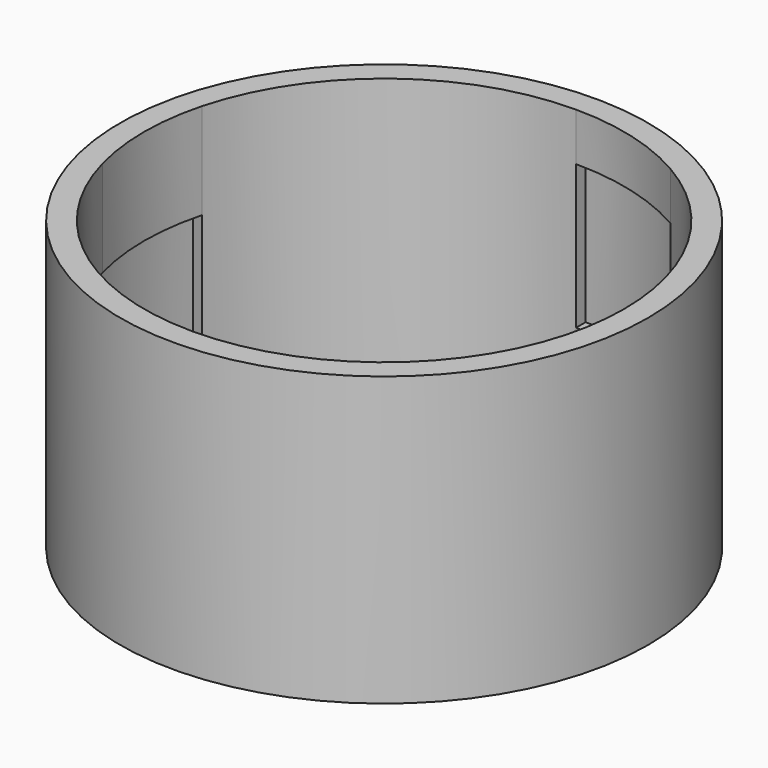
from build123d import *

# Parameters (mm, degrees)
F0_R     = 69.85
F1_DEPTH = 76.2
F2_DEPTH = 50.8
F3_DEPTH = 63.5
F4_DEPTH = 25.4


with BuildPart() as f1:
    # F0 (on Top) → F1 (new body)
    with BuildSketch(Plane.XY):
        Circle(F0_R)
        with BuildLine():
            ThreePointArc((33.3375, 57.7422437973), (52.8968339639, 40.5891682792), (64.4031044678, 17.2567598322))
            ThreePointArc((64.4031044678, 17.2567598322), (66.1045861321, 8.7028338663), (66.675, 0))
            ThreePointArc((66.675, 0), (66.1045861321, -8.7028338663), (64.4031044678, -17.2567598322))
            ThreePointArc((64.4031044678, -17.2567598322), (40.5891682792, -52.8968339639), (0, -66.675))
            ThreePointArc((0, -66.675), (-17.2567598322, -64.4031044678), (-33.3375, -57.7422437973))
            ThreePointArc((-33.3375, -57.7422437973), (-52.8968339639, -40.5891682792), (-64.4031044678, -17.2567598322))
            ThreePointArc((-64.4031044678, -17.2567598322), (-66.675, 0), (-64.4031044678, 17.2567598322))
            ThreePointArc((-64.4031044678, 17.2567598322), (-40.5891682792, 52.8968339639), (0, 66.675))
            ThreePointArc((0, 66.675), (17.2567598322, 64.4031044678), (33.3375, 57.7422437973))
        make_face(mode=Mode.SUBTRACT)
        with BuildLine():
            Line((-33.3375, -57.7422437973), (-31.75, -54.9926131403))
            ThreePointArc((-31.75, -54.9926131403), (-50.3779371085, -38.6563507421), (-61.3362899694, -16.435009364))
            Line((-61.3362899694, -16.435009364), (-64.4031044678, -17.2567598322))
            ThreePointArc((-64.4031044678, -17.2567598322), (-52.8968339639, -40.5891682792), (-33.3375, -57.7422437973))
        make_face()
        with BuildLine():
            ThreePointArc((-61.3362899694, 16.435009364), (-38.6563507421, 50.3779371085), (0, 63.5))
            Line((0, 63.5), (0, 66.675))
            ThreePointArc((0, 66.675), (-40.5891682792, 52.8968339639), (-64.4031044678, 17.2567598322))
            Line((-64.4031044678, 17.2567598322), (-61.3362899694, 16.435009364))
        make_face()
        with BuildLine():
            ThreePointArc((-61.3362899694, -16.435009364), (-63.5, 0), (-61.3362899694, 16.435009364))
            Line((-61.3362899694, 16.435009364), (-64.4031044678, 17.2567598322))
            ThreePointArc((-64.4031044678, 17.2567598322), (-66.675, 0), (-64.4031044678, -17.2567598322))
            Line((-64.4031044678, -17.2567598322), (-61.3362899694, -16.435009364))
        make_face()
        with BuildLine():
            ThreePointArc((61.3362899694, 16.435009364), (62.9567486972, 8.288413206), (63.5, 0))
            ThreePointArc((63.5, 0), (62.9567486972, -8.288413206), (61.3362899694, -16.435009364))
            Line((61.3362899694, -16.435009364), (64.4031044678, -17.2567598322))
            ThreePointArc((64.4031044678, -17.2567598322), (66.1045861321, -8.7028338663), (66.675, 0))
            ThreePointArc((66.675, 0), (66.1045861321, 8.7028338663), (64.4031044678, 17.2567598322))
            Line((64.4031044678, 17.2567598322), (61.3362899694, 16.435009364))
        make_face()
        with BuildLine():
            ThreePointArc((31.75, 54.9926131403), (50.3779371085, 38.6563507421), (61.3362899694, 16.435009364))
            Line((61.3362899694, 16.435009364), (64.4031044678, 17.2567598322))
            ThreePointArc((64.4031044678, 17.2567598322), (52.8968339639, 40.5891682792), (33.3375, 57.7422437973))
            Line((33.3375, 57.7422437973), (31.75, 54.9926131403))
        make_face()
        with BuildLine():
            Line((64.4031044678, -17.2567598322), (61.3362899694, -16.435009364))
            ThreePointArc((61.3362899694, -16.435009364), (38.6563507421, -50.3779371085), (0, -63.5))
            Line((0, -63.5), (0, -66.675))
            ThreePointArc((0, -66.675), (40.5891682792, -52.8968339639), (64.4031044678, -17.2567598322))
        make_face()
        with BuildLine():
            Line((0, -66.675), (0, -63.5))
            ThreePointArc((0, -63.5), (-16.435009364, -61.3362899694), (-31.75, -54.9926131403))
            Line((-31.75, -54.9926131403), (-33.3375, -57.7422437973))
            ThreePointArc((-33.3375, -57.7422437973), (-17.2567598322, -64.4031044678), (0, -66.675))
        make_face()
        with BuildLine():
            ThreePointArc((0, 63.5), (16.435009364, 61.3362899694), (31.75, 54.9926131403))
            Line((31.75, 54.9926131403), (33.3375, 57.7422437973))
            ThreePointArc((33.3375, 57.7422437973), (17.2567598322, 64.4031044678), (0, 66.675))
            Line((0, 66.675), (0, 63.5))
        make_face()
    extrude(amount=F1_DEPTH)

    # F0 (on Top) → F2 (cut)
    with BuildSketch(Plane.XY):
        with BuildLine():
            ThreePointArc((-61.3362899694, -16.435009364), (-63.5, 0), (-61.3362899694, 16.435009364))
            Line((-61.3362899694, 16.435009364), (-64.4031044678, 17.2567598322))
            ThreePointArc((-64.4031044678, 17.2567598322), (-66.675, 0), (-64.4031044678, -17.2567598322))
            Line((-64.4031044678, -17.2567598322), (-61.3362899694, -16.435009364))
        make_face()
        with BuildLine():
            ThreePointArc((61.3362899694, 16.435009364), (62.9567486972, 8.288413206), (63.5, 0))
            ThreePointArc((63.5, 0), (62.9567486972, -8.288413206), (61.3362899694, -16.435009364))
            Line((61.3362899694, -16.435009364), (64.4031044678, -17.2567598322))
            ThreePointArc((64.4031044678, -17.2567598322), (66.1045861321, -8.7028338663), (66.675, 0))
            ThreePointArc((66.675, 0), (66.1045861321, 8.7028338663), (64.4031044678, 17.2567598322))
            Line((64.4031044678, 17.2567598322), (61.3362899694, 16.435009364))
        make_face()
        with BuildLine():
            Line((-33.3375, -57.7422437973), (-31.75, -54.9926131403))
            ThreePointArc((-31.75, -54.9926131403), (-50.3779371085, -38.6563507421), (-61.3362899694, -16.435009364))
            Line((-61.3362899694, -16.435009364), (-64.4031044678, -17.2567598322))
            ThreePointArc((-64.4031044678, -17.2567598322), (-52.8968339639, -40.5891682792), (-33.3375, -57.7422437973))
        make_face()
        with BuildLine():
            ThreePointArc((31.75, 54.9926131403), (50.3779371085, 38.6563507421), (61.3362899694, 16.435009364))
            Line((61.3362899694, 16.435009364), (64.4031044678, 17.2567598322))
            ThreePointArc((64.4031044678, 17.2567598322), (52.8968339639, 40.5891682792), (33.3375, 57.7422437973))
            Line((33.3375, 57.7422437973), (31.75, 54.9926131403))
        make_face()
    extrude(amount=F2_DEPTH, mode=Mode.SUBTRACT)

    # F0 (on Top) → F3 (cut)
    with BuildSketch(Plane.XY):
        with BuildLine():
            Line((0, -66.675), (0, -63.5))
            ThreePointArc((0, -63.5), (-16.435009364, -61.3362899694), (-31.75, -54.9926131403))
            Line((-31.75, -54.9926131403), (-33.3375, -57.7422437973))
            ThreePointArc((-33.3375, -57.7422437973), (-17.2567598322, -64.4031044678), (0, -66.675))
        make_face()
        with BuildLine():
            ThreePointArc((0, 63.5), (16.435009364, 61.3362899694), (31.75, 54.9926131403))
            Line((31.75, 54.9926131403), (33.3375, 57.7422437973))
            ThreePointArc((33.3375, 57.7422437973), (17.2567598322, 64.4031044678), (0, 66.675))
            Line((0, 66.675), (0, 63.5))
        make_face()
    extrude(amount=F3_DEPTH, mode=Mode.SUBTRACT)

    # F0 (on Top) → F4 (join)
    with BuildSketch(Plane.XY):
        with BuildLine():
            Line((-33.3375, -57.7422437973), (-31.75, -54.9926131403))
            ThreePointArc((-31.75, -54.9926131403), (-50.3779371085, -38.6563507421), (-61.3362899694, -16.435009364))
            Line((-61.3362899694, -16.435009364), (-64.4031044678, -17.2567598322))
            ThreePointArc((-64.4031044678, -17.2567598322), (-52.8968339639, -40.5891682792), (-33.3375, -57.7422437973))
        make_face()
        with BuildLine():
            Line((0, -66.675), (0, -63.5))
            ThreePointArc((0, -63.5), (-16.435009364, -61.3362899694), (-31.75, -54.9926131403))
            Line((-31.75, -54.9926131403), (-33.3375, -57.7422437973))
            ThreePointArc((-33.3375, -57.7422437973), (-17.2567598322, -64.4031044678), (0, -66.675))
        make_face()
        with BuildLine():
            ThreePointArc((31.75, 54.9926131403), (50.3779371085, 38.6563507421), (61.3362899694, 16.435009364))
            Line((61.3362899694, 16.435009364), (64.4031044678, 17.2567598322))
            ThreePointArc((64.4031044678, 17.2567598322), (52.8968339639, 40.5891682792), (33.3375, 57.7422437973))
            Line((33.3375, 57.7422437973), (31.75, 54.9926131403))
        make_face()
        with BuildLine():
            ThreePointArc((0, 63.5), (16.435009364, 61.3362899694), (31.75, 54.9926131403))
            Line((31.75, 54.9926131403), (33.3375, 57.7422437973))
            ThreePointArc((33.3375, 57.7422437973), (17.2567598322, 64.4031044678), (0, 66.675))
            Line((0, 66.675), (0, 63.5))
        make_face()
    extrude(amount=F4_DEPTH)


solid = f1.part
